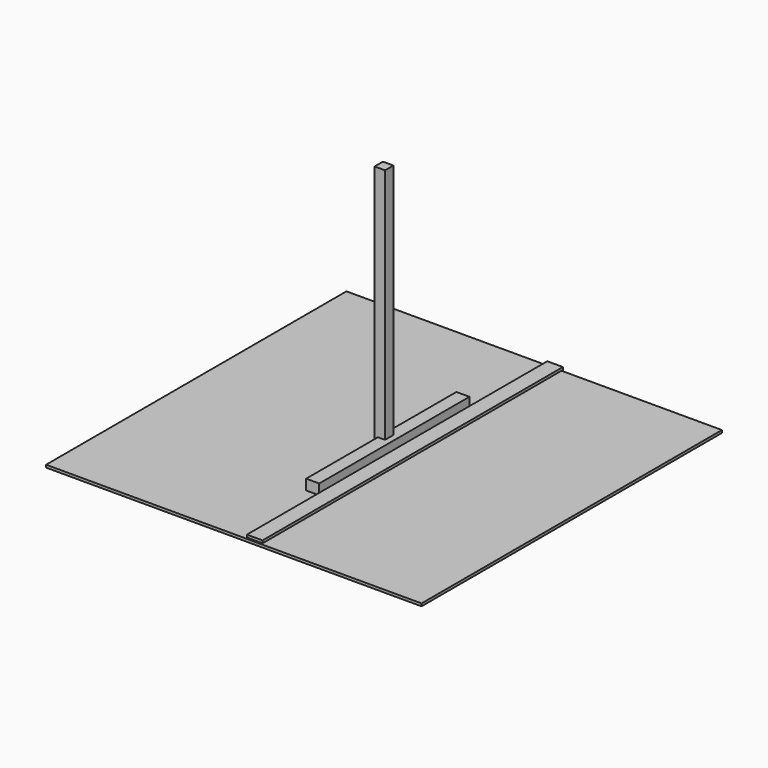
from build123d import *

# Parameters (mm, degrees)
F0_W     = 127
F0_H     = 1828.8
F1_DEPTH = 127
F2_W     = 152.4
F2_H     = 3657.6
F3_DEPTH = 50.8
F4_W     = 3657.6
F4_H     = 3657.6
F5_DEPTH = 25.4
F6_W     = 101.6
F6_H     = 101.6
F7_DEPTH = 2438.4


with BuildPart() as f1:
    # F0 (on Top) → F1 (new body)
    with BuildSketch(Plane.XY):
        with Locations((45.330457, -10.347422)):
            Rectangle(F0_W, F0_H)
    extrude(amount=F1_DEPTH)


with BuildPart() as f3:
    # F2 (on Top) → F3 (new body)
    with BuildSketch(Plane.XY):
        with Locations((190.076451, 16.878754)):
            Rectangle(F2_W, F2_H)
    extrude(amount=F3_DEPTH)


with BuildPart() as f5:
    # F4 (on Top) → F5 (new body)
    with BuildSketch(Plane.XY):
        Rectangle(F4_W, F4_H)
    extrude(amount=F5_DEPTH)


with BuildPart() as f7:
    # F6 (on Top) → F7 (new body)
    with BuildSketch(Plane.XY):
        Rectangle(F6_W, F6_H)
    extrude(amount=F7_DEPTH)


solid = Compound([f1.part, f3.part, f5.part, f7.part])
